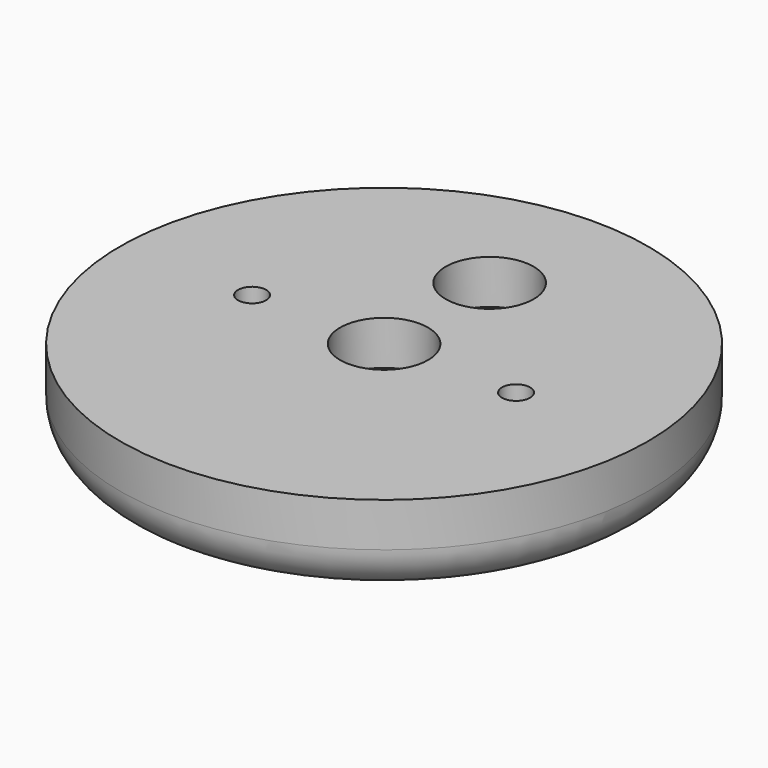
from build123d import *

# Parameters (mm, degrees)
SKETCH_R        = 30
PAD_DEPTH       = 10
SKETCH002_R     = 1.5
POCKET_DEPTH    = 10.001
SKETCH003_R     = 5
POCKET001_DEPTH = 5
SKETCH004_R     = 1.6
POCKET002_DEPTH = 10.001
SKETCH005_R     = 5
POCKET003_DEPTH = 5
FILLET_R        = 5


with BuildPart() as part:
    # Sketch → Pad (new body)
    with BuildSketch(Plane.XY):
        Circle(SKETCH_R)
    extrude(amount=PAD_DEPTH)

    # Sketch002 (on Face3 of Pad) → Pocket (cut, through all)
    with BuildSketch(Plane.XY.offset(10)):
        Circle(SKETCH002_R)
        with Locations((0, 15)):
            Circle(SKETCH002_R)
    extrude(amount=-POCKET_DEPTH, mode=Mode.SUBTRACT)

    # Sketch003 (on Face3 of Pocket) → Pocket001 (cut)
    with BuildSketch(Plane.XY.offset(10)):
        with Locations((0, 15)):
            Circle(SKETCH003_R)
        Circle(SKETCH003_R)
    extrude(amount=-POCKET001_DEPTH, mode=Mode.SUBTRACT)

    # Sketch004 (on Face2 of Pocket001) → Pocket002 (cut, through all)
    with BuildSketch(Plane(origin=(0, 0, 0), x_dir=(1, 0, 0), z_dir=(0, 0, -1))):
        with Locations((-15, 0)):
            Circle(SKETCH004_R)
        with Locations((15, 0)):
            Circle(SKETCH004_R)
    extrude(amount=-POCKET002_DEPTH, mode=Mode.SUBTRACT)

    # Sketch005 (on Face2 of Pocket002) → Pocket003 (cut)
    with BuildSketch(Plane(origin=(0, 0, 0), x_dir=(1, 0, 0), z_dir=(0, 0, -1))):
        with Locations((-15, 0)):
            Circle(SKETCH005_R)
        with Locations((15, 0)):
            Circle(SKETCH005_R)
    extrude(amount=-POCKET003_DEPTH, mode=Mode.SUBTRACT)

    # Fillet
    fillet_edges = [part.edges().sort_by_distance(p)[0] for p in [
        (-30, 0, 0),
    ]]
    fillet(fillet_edges, radius=FILLET_R)


solid = part.part
